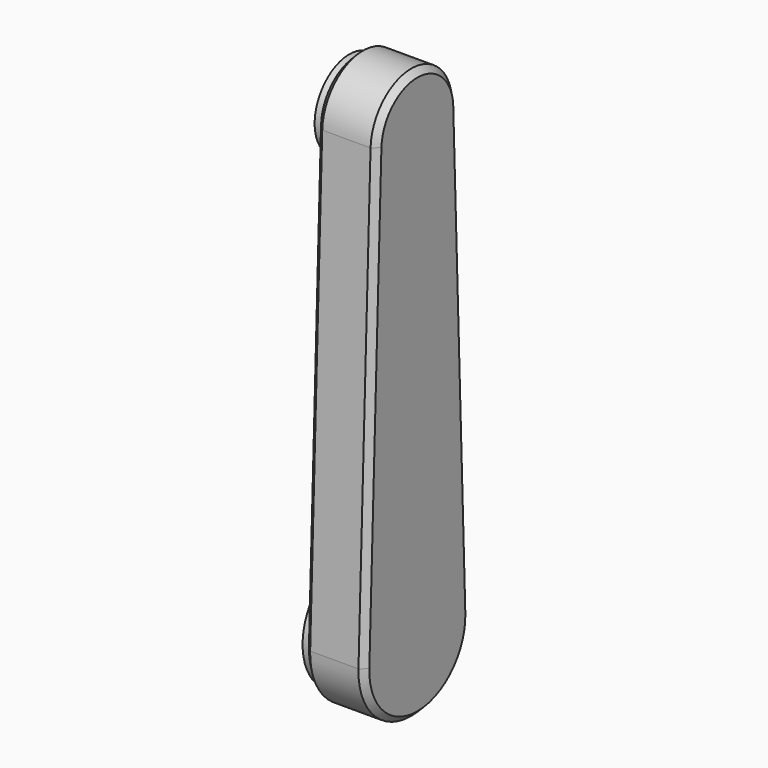
from build123d import *

# Parameters (mm, degrees)
PAD_DEPTH     = 80
SKETCH001_R   = 57.5
SKETCH001_R_2 = 77.5
PAD001_DEPTH  = 10
CHAMFER_SIZE  = 8


with BuildPart() as part:
    # Sketch → Pad (new body)
    with BuildSketch(Plane.YZ):
        with BuildLine():
            ThreePointArc((-87.451375, 2.916667), (0, -87.5), (87.451375, 2.916667))
            Line((87.451375, 2.916667), (67.46249, 602.25))
            ThreePointArc((67.46249, 602.25), (0, 667.5), (-67.46249, 602.25))
            Line((-87.451375, 2.916667), (-67.46249, 602.25))
        make_face()
    extrude(amount=PAD_DEPTH)

    # Sketch001 (on Face5 of Pad) → Pad001 (join)
    with BuildSketch(Plane(origin=(0, 0, 0), x_dir=(0, 1, 0), z_dir=(-1, 0, 0))):
        with Locations((0, -600)):
            Circle(SKETCH001_R)
        with Locations((0, -0.617088)):
            Circle(SKETCH001_R_2)
    extrude(amount=PAD001_DEPTH)

    # Chamfer
    chamfer_edges = [part.edges().sort_by_distance(p)[0] for p in [
        (0, -77.456932, 302.583333),
        (80, 0, -87.5),
        (80, 77.456932, 302.583333),
        (80, 0, 667.5),
        (80, -77.456932, 302.583333),
    ]]
    chamfer(chamfer_edges, length=CHAMFER_SIZE)


solid = part.part
